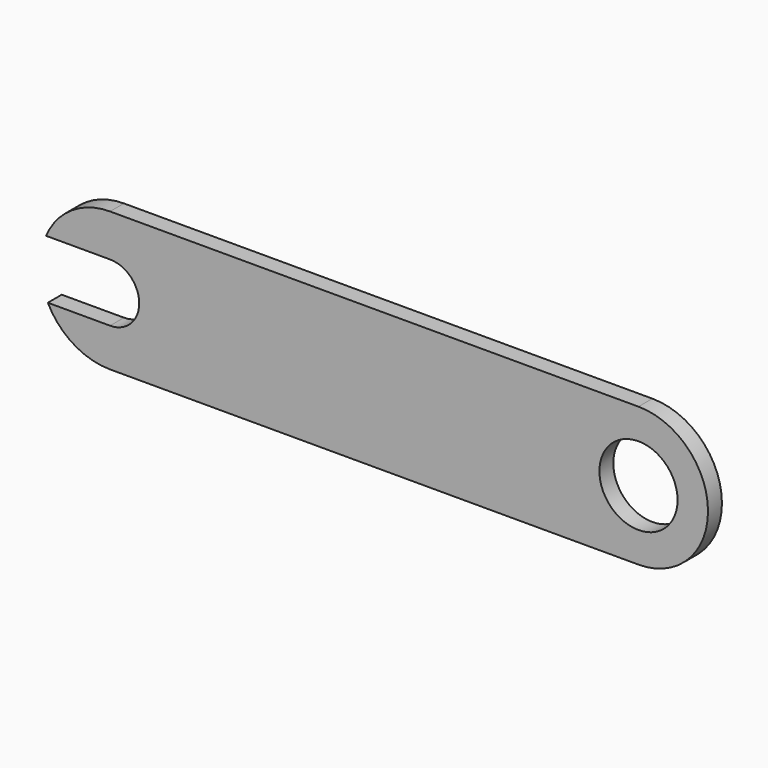
from build123d import *

# Parameters (mm, degrees)
F0_R     = 56.205306
F1_DEPTH = 25


with BuildPart() as f1:
    # F0 (on Front) → F1 (new body)
    with BuildSketch(Plane.XZ):
        with BuildLine():
            Line((190, 100), (-190, 100))
            Line((-190, 100), (-570, 100))
            Line((-570, 100), (-570, 39.229718))
            ThreePointArc((-570, 39.229718), (-528.067085, -2.703197), (-570, -44.636112))
            Line((-570, -44.636112), (-570, -100))
            Line((-570, -100), (-190, -100))
            Line((-190, -100), (190, -100))
            ThreePointArc((190, -100), (290, 0), (190, 100))
        make_face()
        with Locations((190, 0)):
            Circle(F0_R, mode=Mode.SUBTRACT)
        with BuildLine():
            Line((-570, 39.229718), (-570, 100))
            ThreePointArc((-570, 100), (-625.122719, 83.435519), (-661.983853, 39.229718))
            Line((-661.983853, 39.229718), (-570, 39.229718))
        make_face()
        with BuildLine():
            Line((-570, -100), (-570, -44.636112))
            Line((-570, -44.636112), (-659.485292, -44.636112))
            ThreePointArc((-659.485292, -44.636112), (-622.613633, -85.040023), (-570, -100))
        make_face()
    extrude(amount=F1_DEPTH)


solid = f1.part
